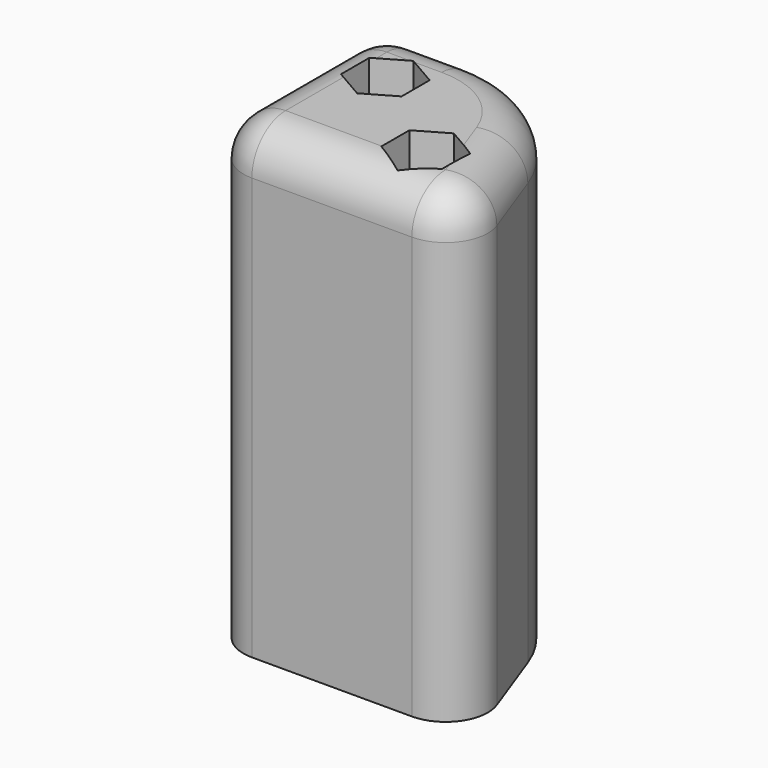
from build123d import *

# Parameters (mm, degrees)
PAD_DEPTH     = 55
FILLET_R      = 5
FILLET001_R   = 5
SKETCH004_R   = 2
HOLE001_DEPTH = 55.001
POCKET_START  = 30
POCKET_DEPTH  = 70


with BuildPart() as part:
    # Sketch → Pad (new body)
    with BuildSketch(Plane.XY):
        with BuildLine():
            Line((-10.503113, 0), (-22, 0))
            Line((-22, 0), (-22, -25))
            Line((-22, -25), (9.099256, -25))
            Line((3.592276, -9.869698), (9.099256, -25))
            ThreePointArc((3.592276, -9.869698), (-1.899467, -2.712719), (-10.503113, 0))
        make_face()
    extrude(amount=PAD_DEPTH)

    # Fillet
    fillet_edges = [part.edges().sort_by_distance(p)[0] for p in [
        (9.099256, -25, 27.5),
        (-22, -25, 27.5),
        (-22, 0, 27.5),
    ]]
    fillet(fillet_edges, radius=FILLET_R)

    # Fillet001
    fillet001_edges = [part.edges().sort_by_distance(p)[0] for p in [
        (-13.751557, 0, 55),
        (-20.535534, -1.464466, 55),
        (-1.899467, -2.712719, 55),
        (-22, -12.5, 55),
        (5.124628, -14.079799, 55),
        (-20.535534, -23.535534, 55),
        (6.054276, -22.867882, 55),
        (-7.520742, -25, 55),
    ]]
    fillet(fillet001_edges, radius=FILLET001_R)

    # Sketch004 → Hole001 (cut, through all)
    with BuildSketch(Plane.XY):
        with Locations((-2, -18)):
            Circle(SKETCH004_R)
        with Locations((-14, -9)):
            Circle(SKETCH004_R)
    extrude(amount=HOLE001_DEPTH, mode=Mode.SUBTRACT)

    # Sketch005 → Pocket (cut)
    with BuildSketch(Plane.XY.offset(POCKET_START)):
        Polygon((1.6, -15.921539), (-2, -13.843078), (-5.6, -15.921539), (-5.6, -20.078461), (-2, -22.156922), (1.6, -20.078461), align=None)
        Polygon((-10.4, -6.921539), (-14, -4.843078), (-17.6, -6.921539), (-17.6, -11.078461), (-14, -13.156922), (-10.4, -11.078461), align=None)
    extrude(amount=POCKET_DEPTH, mode=Mode.SUBTRACT)


solid = part.part
